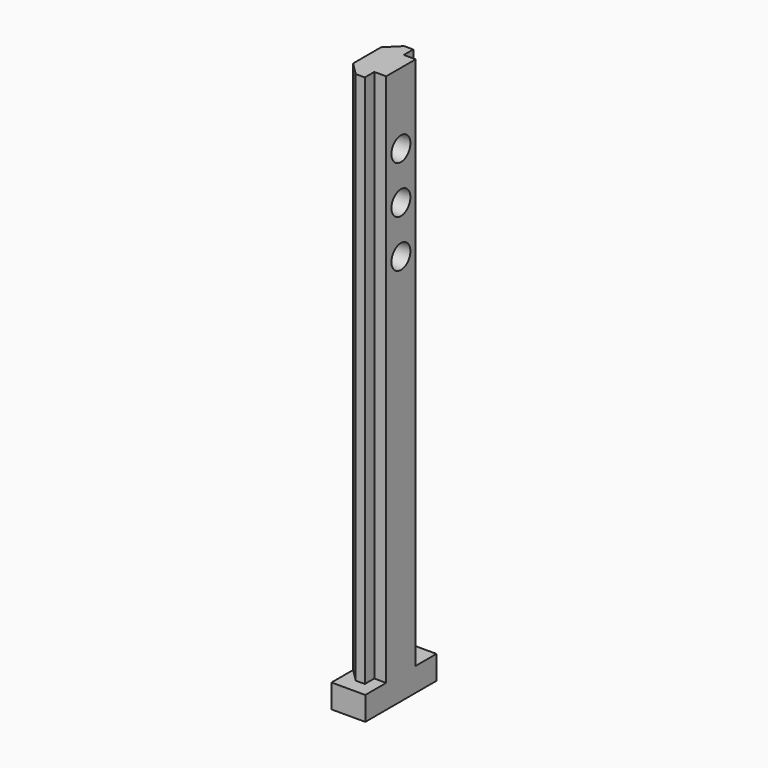
from build123d import *

# Parameters (mm, degrees)
PAD118_DEPTH            = 90
POCKET084_DEPTH         = 90.001
SKETCH238_R             = 2
POCKET085_DEPTH         = 10
POCKET085_TAPER         = 5
SKETCH239_W             = 5.7
SKETCH239_H             = 15
PAD119_DEPTH            = 4
BODY139_ROLL_ANGLE      = 90
BODY139_PLACEMENT_ANGLE = 180


with BuildPart() as part:
    # Sketch236 (on Face1 of CopyLinearPattern013) → Pad118 (new body)
    with BuildSketch(Plane(origin=(0, 240, 0), x_dir=(-1, 0, 0), z_dir=(0, 1, 0))):
        Polygon((10, 3.1), (10, -3.1), (8, -3.1), (8, -5.5), (6.3, -5.5), (3.9, -3.1), (3.9, 3.1), (6.3, 5.5), (8, 5.5), (8, 3.1), align=None)
    extrude(amount=PAD118_DEPTH)

    # Sketch237 (on Face11 of Pad118) → Pocket084 (cut, through all)
    with BuildSketch(Plane.XZ.offset(-240)):
        Polygon((-8, 5.1), (-8, 5.5), (-6.3, 5.5), (-3.9, 3.1), (-3.9, -3.1), (-6.3, -5.5), (-8, -5.5), (-8, -5.1), (-6.465685, -5.1), (-4.3, -2.934315), (-4.3, 2.934315), (-6.465685, 5.1), align=None)
    extrude(amount=-POCKET084_DEPTH, mode=Mode.SUBTRACT)

    # Sketch238 (on Face1 of Pocket084) → Pocket085 (cut)
    with BuildSketch(Plane(origin=(-10, 0, 0), x_dir=(0, -1, 0), z_dir=(-1, 0, 0))):
        with Locations((-310, 0)):
            Circle(SKETCH238_R)
        with Locations((-302, 0)):
            Circle(SKETCH238_R)
        with Locations((-318, 0)):
            Circle(SKETCH238_R)
    extrude(amount=-POCKET085_DEPTH, taper=POCKET085_TAPER, mode=Mode.SUBTRACT)

    # Sketch239 (on Face3 of Pocket085) → Pad119 (join)
    with BuildSketch(Plane.XZ.offset(-240)):
        with Locations((-7.15, 0)):
            Rectangle(SKETCH239_W, SKETCH239_H)
    extrude(amount=PAD119_DEPTH)


with BuildPart() as part_1:
    # Body139 roll: moved
    add(part.part.rotate(Axis((0, 0, 0), (1, 0, 0)), BODY139_ROLL_ANGLE))


with BuildPart() as part_2:
    # Body139 placement: moved
    add(part_1.part.moved(Location((-41, 229.5, -133))).rotate(Axis((-41, 229.5, -133), (0, 0, 1)), BODY139_PLACEMENT_ANGLE))


solid = part_2.part
